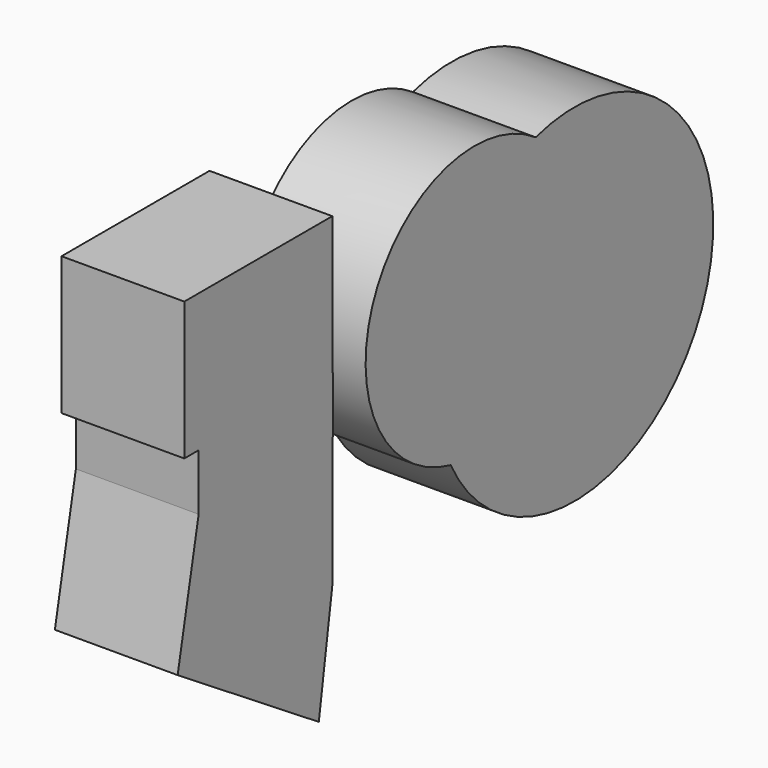
from build123d import *

# Parameters (mm, degrees)
F0_W     = 0.2484787256
F0_H     = 11.6704234847
F0_W_2   = 34.5566543078
F1_DEPTH = 25.4


with BuildPart() as f1:
    # F0 (on Right) → F1 (new body)
    with BuildSketch(Plane.YZ):
        with Locations((-19.7540214285, 16.9005497362)):
            Rectangle(F0_W, F0_H)
        Polygon((-19.8782607913, -16.0268489271), (-59.8657472271, -16.0268489271), (-23.3569573611, -39.3838062882), align=None)
        Polygon((-58.1439137459, 22.7357614785), (-54.4349150991, 22.7357614785), (-19.8782607913, 22.7357614785), (-19.8782607913, 51.3107590377), (-58.1439137459, 51.3107590377), align=None)
        Polygon((-54.4349150991, 11.0653379939), (-56.6530451179, 0), (-19.8782607913, 0), (-19.8782607913, 11.0653379939), align=None)
        Polygon((-19.8782607913, 0), (-56.6530451179, 0), (-59.8657472271, -16.0268489271), (-19.8782607913, -16.0268489271), align=None)
        with Locations((-37.1565879452, 16.9005497362)):
            Rectangle(F0_W_2, F0_H)
    extrude(amount=F1_DEPTH)


with BuildPart() as f1b:
    # F0 (on Right) → F1, piece 2 (new body)
    with BuildSketch(Plane.YZ):
        with BuildLine():
            ThreePointArc((10.7435146003, -6.4801681734), (9.7857196096, 24.0733109393), (32.7128486809, 44.2915999293))
            ThreePointArc((32.7128486809, 44.2915999293), (-8.945073617, 32.1782690562), (10.7435146003, -6.4801681734))
        make_face()
        with BuildLine():
            ThreePointArc((32.7128486809, 44.2915999293), (41.7778779667, 34.1774621992), (45.0536161334, 20.9964122623))
            ThreePointArc((45.0536161334, 20.9964122623), (34.4972484633, -0.9816764834), (10.7435146003, -6.4801681734))
            ThreePointArc((10.7435146003, -6.4801681734), (51.1168044711, -25.0991981896), (78.6431667306, 9.8145554684))
            ThreePointArc((78.6431667306, 9.8145554684), (64.2928709887, 38.5297984193), (32.7128486809, 44.2915999293))
        make_face()
        with BuildLine():
            ThreePointArc((10.7435146003, -6.4801681734), (34.4972484633, -0.9816764834), (45.0536161334, 20.9964122623))
            ThreePointArc((45.0536161334, 20.9964122623), (41.7778779667, 34.1774621992), (32.7128486809, 44.2915999293))
            ThreePointArc((32.7128486809, 44.2915999293), (9.7857196096, 24.0733109393), (10.7435146003, -6.4801681734))
        make_face()
    extrude(amount=F1_DEPTH)


solid = Compound([f1.part, f1b.part])
